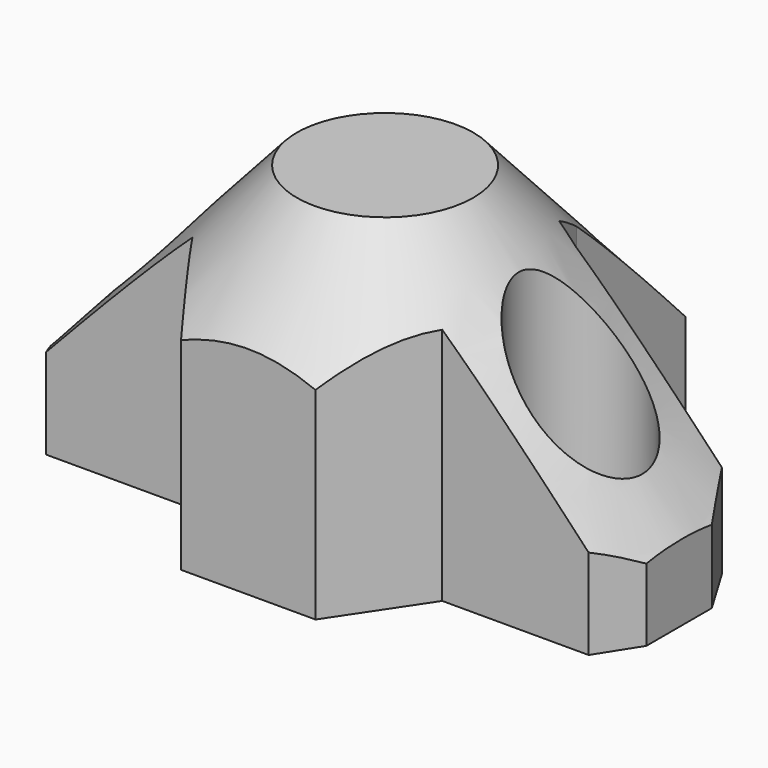
from build123d import *

# Parameters (mm, degrees)
SKETCH_R     = 3
PAD_DEPTH    = 15
SKETCH002_R  = 1.5
PAD001_DEPTH = 1.5


with BuildPart() as part:
    # Sketch → Pad (new body)
    with BuildSketch(Plane.XY):
        Polygon((0, 14.427438), (-2.041881, 14.502734), (-4.540238, 12.582665), (-4.540238, 8.140154), (-4.540238, 5.954917), (-4.912402, 4.43243), (-5.873682, 4.237903), (-12.981692, 4.237903), (-14.428203, 1.815223), (-14.428203, 0), (-14.428203, -2.157977), (-13.184835, -4.115694), (-6.069288, -4.115694), (-3.269161, -8.313478), (0, -8.313478), (3.269161, -8.313478), (6.069288, -4.115694), (13.184835, -4.115694), (14.428203, -2.157977), (14.428203, 0), (14.428203, 1.815223), (12.981692, 4.237903), (5.873682, 4.237903), (4.912402, 4.43243), (4.540238, 5.954917), (4.540238, 8.140154), (4.540238, 12.582665), (2.041881, 14.502734), align=None)
        with Locations((0, 9.5)):
            Circle(SKETCH_R, mode=Mode.SUBTRACT)
        with Locations((-9.5, 0)):
            Circle(SKETCH_R, mode=Mode.SUBTRACT)
        with Locations((9.5, 0)):
            Circle(SKETCH_R, mode=Mode.SUBTRACT)
    extrude(amount=PAD_DEPTH)

    # Sketch001 → Groove (revolve, cut)
    with BuildSketch(Plane.XZ):
        Polygon((3.000144, 16.438543), (15.461766, 2.546283), (18.059507, 16.438543), align=None)
    revolve(axis=Axis((0, 0, 0), (0, 0, 1)), mode=Mode.SUBTRACT)

    # Sketch002 (on Face2 of Groove) → Pad001 (join)
    with BuildSketch(Plane(origin=(0, 0, 0), x_dir=(1, 0, 0), z_dir=(0, 0, -1))):
        Polygon((-12.307145, 3.302316), (11.637245, 3.302316), (13.331424, 0.817521), (13.067885, -2.119055), (11.185462, -3.474398), (3.392242, -3.474398), (3.655782, -9.272253), (2.940462, -12.66061), (0.342722, -13.37593), (-2.895042, -12.773556), (-3.873901, -9.159308), (-3.459768, -4.528554), (-5.455134, -2.984969), (-11.70477, -3.737936), (-13.737784, -1.366087), align=None)
        with Locations((-9.5, 0)):
            Circle(SKETCH002_R, mode=Mode.SUBTRACT)
        with Locations((9.5, 0)):
            Circle(SKETCH002_R, mode=Mode.SUBTRACT)
        with Locations((0, -9.5)):
            Circle(SKETCH002_R, mode=Mode.SUBTRACT)
    extrude(amount=-PAD001_DEPTH)


solid = part.part
